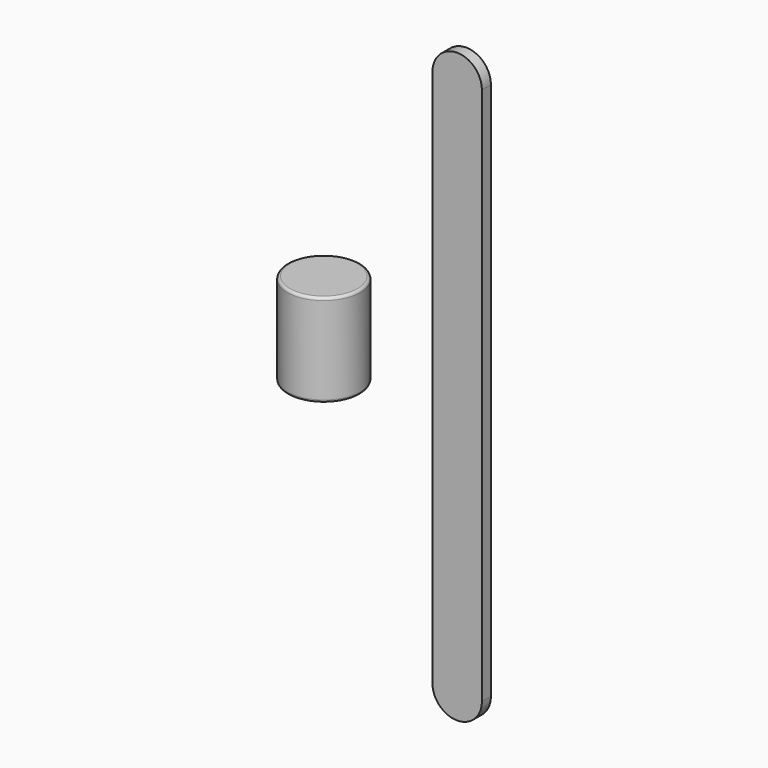
from build123d import *

# Parameters (mm, degrees)
F0_W     = 6.985
F0_H     = 17.78
F2_R     = 0.508
F4_DEPTH = 2.159


with BuildPart() as f1:
    # F0 (on Front) → F1 (revolve)
    with BuildSketch(Plane.XZ):
        with Locations((-55.0397741815, 0)):
            Rectangle(F0_W, F0_H)
    revolve(axis=Axis((-58.5322741815, 0, 0), (0, 0, -1)))

    # F2
    f2_edges = [f1.edges().sort_by_distance(p)[0] for p in [
        (-65.517274, 0, 8.89),
        (-65.517274, 0, -8.89),
        (-51.547274, 0, 0),
    ]]
    fillet(f2_edges, radius=F2_R)


with BuildPart() as f4:
    # F3 (on Front) → F4 (new body)
    with BuildSketch(Plane.XZ):
        with BuildLine():
            Line((-26.4895358072, -51.61915), (-26.4895358072, 51.61915))
            ThreePointArc((-26.4895358072, 51.61915), (-31.2266358072, 56.35625), (-35.9637358072, 51.61915))
            Line((-35.9637358072, 51.61915), (-35.9637358072, -51.61915))
            ThreePointArc((-35.9637358072, -51.61915), (-31.2266358072, -56.35625), (-26.4895358072, -51.61915))
        make_face()
    extrude(amount=F4_DEPTH)


solid = Compound([f1.part, f4.part])
